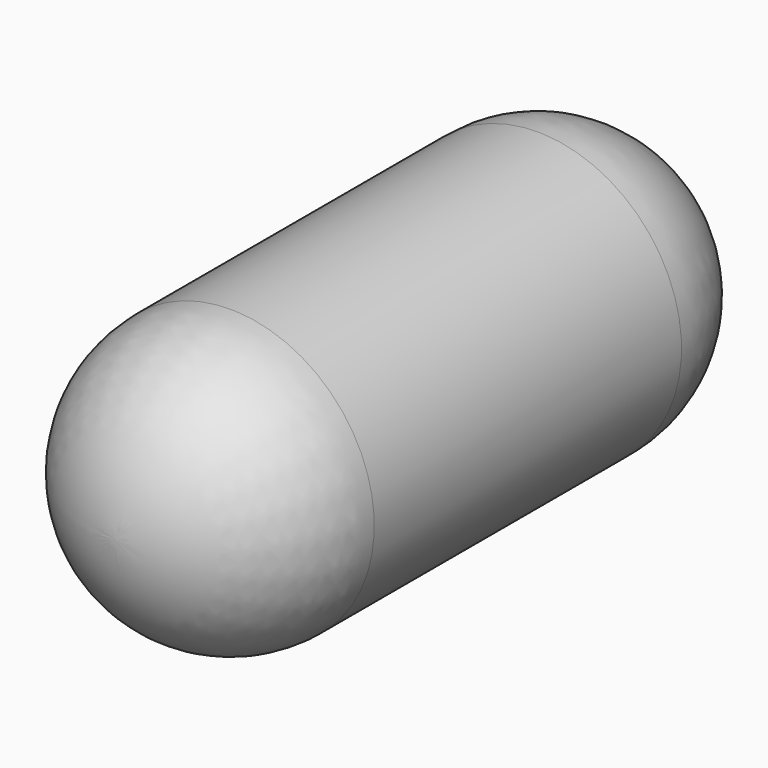
from build123d import *


with BuildPart() as f1:
    # F0 (on Top) → F1 (revolve)
    with BuildSketch(Plane.XY):
        with BuildLine():
            Line((0, 86.666685), (0, 0))
            ThreePointArc((0, 0), (9.51903, -22.98097), (32.5, -32.5))
            Line((32.5, -32.5), (32.5, 119.166685))
            ThreePointArc((32.5, 119.166685), (9.51903, 109.647656), (0, 86.666685))
        make_face()
    revolve(axis=Axis((32.5, 43.333343, 0), (0, 1, 0)))


solid = f1.part
